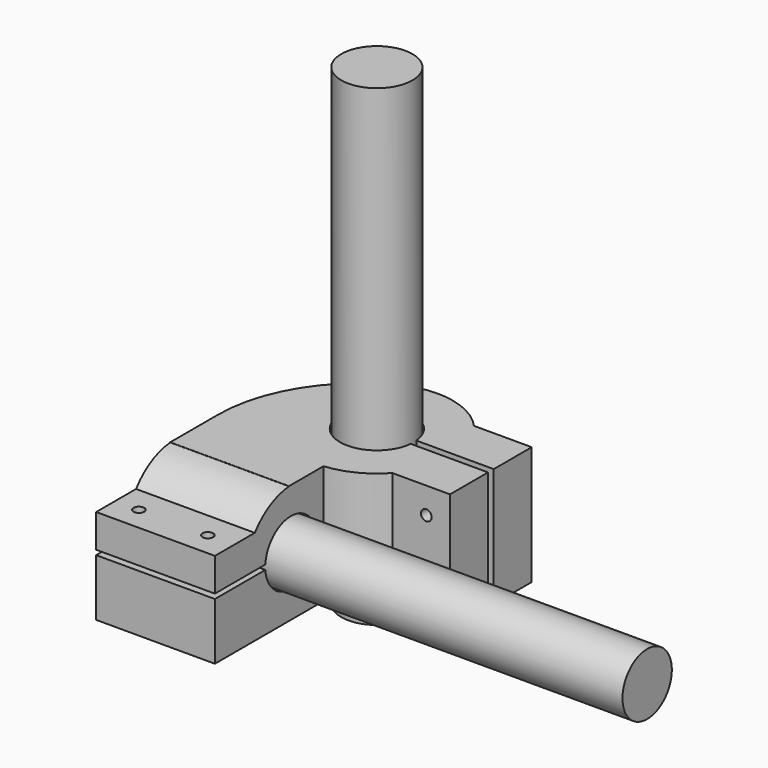
from build123d import *

# Parameters (mm, degrees)
CYLINDER_R                  = 15
CYLINDER_DEPTH              = 199
CYLINDER001_R               = 13
CYLINDER001_DEPTH           = 200
CYLINDER005_R               = 2.25
CYLINDER005_DEPTH           = 50
CYLINDER006_R               = 2.25
CYLINDER006_DEPTH           = 50
FUSION_ROLL_ANGLE           = 90
FUSION_PLACEMENT_ANGLE      = 90
CYLINDER007_R               = 2.25
CYLINDER007_DEPTH           = 50
CYLINDER008_R               = 2.25
CYLINDER008_DEPTH           = 50
CYLINDER004_R               = 15.5
CYLINDER004_DEPTH           = 199
CYLINDER003_R               = 13.5
CYLINDER003_DEPTH           = 200
BOX006_W                    = 50
BOX006_H                    = 27
BOX006_DEPTH                = 2
BOX_W                       = 20
BOX_H                       = 3
BOX_DEPTH                   = 50
CYLINDER002_W               = 60
CYLINDER002_H               = 50
CYLINDER002_ANGLE           = 60
CYLINDER002_PLACEMENT_ANGLE = 120
BOX005_W                    = 50
BOX005_H                    = 24
BOX005_DEPTH                = 14
BOX004_W                    = 50
BOX004_H                    = 25
BOX004_DEPTH                = 14
BOX003_W                    = 50
BOX003_H                    = 63
BOX003_DEPTH                = 10
BOX002_W                    = 25
BOX002_H                    = 20
BOX002_DEPTH                = 50
BOX001_W                    = 25
BOX001_H                    = 20
BOX001_DEPTH                = 50
TUBE001_R                   = 25
TUBE001_R_2                 = 13.5
TUBE001_DEPTH               = 50
TUBE_R                      = 32
TUBE_R_2                    = 15.5
TUBE_DEPTH                  = 50
BOX007_W                    = 50
BOX007_H                    = 25
BOX007_DEPTH                = 50


with BuildPart() as horizontal:
    # Cylinder → Cylinder (new body)
    with BuildSketch(Plane.XY):
        Circle(CYLINDER_R)
    extrude(amount=CYLINDER_DEPTH)


with BuildPart() as vertical:
    # Cylinder001 → Cylinder001 (new body)
    with BuildSketch(Plane(origin=(-47, -49, 40), x_dir=(0, 1, 0), z_dir=(1, 0, 0))):
        Circle(CYLINDER001_R)
    extrude(amount=CYLINDER001_DEPTH)


with BuildPart() as m4s:
    # Cylinder005 → Cylinder005 (new body)
    with BuildSketch(Plane(origin=(38, 22, 25), x_dir=(1, 0, 0), z_dir=(0, -1, 0))):
        Circle(CYLINDER005_R)
    extrude(amount=CYLINDER005_DEPTH)


with BuildPart() as m4s002:
    # Cylinder006 → Cylinder006 (new body)
    with BuildSketch(Plane(origin=(38, 22, 54), x_dir=(1, 0, 0), z_dir=(0, -1, 0))):
        Circle(CYLINDER006_R)
    extrude(amount=CYLINDER006_DEPTH)

    # Fusion: union m4s
    add(m4s.part)


with BuildPart() as obj1:
    # Fusion roll: moved
    add(m4s002.part.rotate(Axis((0, 0, 0), (1, 0, 0)), FUSION_ROLL_ANGLE))


with BuildPart() as obj2:
    # Fusion placement: moved
    add(obj1.part.moved(Location((-62, -117, 43))).rotate(Axis((-62, -117, 43), (0, 0, 1)), FUSION_PLACEMENT_ANGLE))


with BuildPart() as m4s004:
    # Cylinder007 → Cylinder007 (new body)
    with BuildSketch(Plane(origin=(38, 22, 25), x_dir=(1, 0, 0), z_dir=(0, -1, 0))):
        Circle(CYLINDER007_R)
    extrude(amount=CYLINDER007_DEPTH)


with BuildPart() as m4s003:
    # Cylinder008 → Cylinder008 (new body)
    with BuildSketch(Plane(origin=(38, 22, 54), x_dir=(1, 0, 0), z_dir=(0, -1, 0))):
        Circle(CYLINDER008_R)
    extrude(amount=CYLINDER008_DEPTH)

    # Fusion001: union m4s004
    add(m4s004.part)


with BuildPart() as horizontal001cuts:
    # Cylinder004 → Cylinder004 (new body)
    with BuildSketch(Plane.XY):
        Circle(CYLINDER004_R)
    extrude(amount=CYLINDER004_DEPTH)


with BuildPart() as vertical001cuts:
    # Cylinder003 → Cylinder003 (new body)
    with BuildSketch(Plane(origin=(-47, -49, 40), x_dir=(0, 1, 0), z_dir=(1, 0, 0))):
        Circle(CYLINDER003_R)
    extrude(amount=CYLINDER003_DEPTH)


with BuildPart() as vercuts:
    # Box006 → Box006 (new body)
    with BuildSketch(Plane(origin=(-47, -89, 39), x_dir=(1, 0, 0), z_dir=(0, 0, 1))):
        with Locations((25, 13.5)):
            Rectangle(BOX006_W, BOX006_H)
    extrude(amount=BOX006_DEPTH)


with BuildPart() as cuts:
    # Box → Box (new body)
    with BuildSketch(Plane(origin=(14, -1.5, 15), x_dir=(1, 0, 0), z_dir=(0, 0, 1))):
        with Locations((10, 1.5)):
            Rectangle(BOX_W, BOX_H)
    extrude(amount=BOX_DEPTH)

    # Fusion002: union m4s002, m4s003, Horizontal001Cuts, Vertical001Cuts, verCuts
    add(obj2.part)
    add(m4s003.part)
    add(horizontal001cuts.part)
    add(vertical001cuts.part)
    add(vercuts.part)


with BuildPart() as obj3:
    # Cylinder002 → Cylinder002 (revolve)
    with BuildSketch(Plane.XZ):
        with Locations((30, 25)):
            Rectangle(CYLINDER002_W, CYLINDER002_H)
    revolve(axis=Axis((0, 0, 0), (0, 0, 1)), revolution_arc=CYLINDER002_ANGLE)


with BuildPart() as obj3_1:
    # Cylinder002 placement: moved
    add(obj3.part.moved(Location((13, -25, 15))).rotate(Axis((13, -25, 15), (0, 0, 1)), CYLINDER002_PLACEMENT_ANGLE))


with BuildPart() as veraddons002:
    # Box005 → Box005 (new body)
    with BuildSketch(Plane(origin=(-47, -89, 41), x_dir=(1, 0, 0), z_dir=(0, 0, 1))):
        with Locations((25, 12)):
            Rectangle(BOX005_W, BOX005_H)
    extrude(amount=BOX005_DEPTH)


with BuildPart() as veraddons001:
    # Box004 → Box004 (new body)
    with BuildSketch(Plane(origin=(-47, -89, 25), x_dir=(1, 0, 0), z_dir=(0, 0, 1))):
        with Locations((25, 12.5)):
            Rectangle(BOX004_W, BOX004_H)
    extrude(amount=BOX004_DEPTH)


with BuildPart() as veraddons:
    # Box003 → Box003 (new body)
    with BuildSketch(Plane(origin=(-47, -89, 15), x_dir=(1, 0, 0), z_dir=(0, 0, 1))):
        with Locations((25, 31.5)):
            Rectangle(BOX003_W, BOX003_H)
    extrude(amount=BOX003_DEPTH)


with BuildPart() as obj4:
    # Box002 → Box002 (new body)
    with BuildSketch(Plane(origin=(23, 1.5, 15), x_dir=(1, 0, 0), z_dir=(0, 0, 1))):
        with Locations((12.5, 10)):
            Rectangle(BOX002_W, BOX002_H)
    extrude(amount=BOX002_DEPTH)


with BuildPart() as obj5:
    # Box001 → Box001 (new body)
    with BuildSketch(Plane(origin=(23, -21.5, 15), x_dir=(1, 0, 0), z_dir=(0, 0, 1))):
        with Locations((12.5, 10)):
            Rectangle(BOX001_W, BOX001_H)
    extrude(amount=BOX001_DEPTH)


with BuildPart() as tubeaddons001:
    # Tube001 → Tube001 (new body)
    with BuildSketch(Plane(origin=(-47, -48, 40), x_dir=(0, 0, -1), z_dir=(1, 0, 0))):
        Circle(TUBE001_R)
        Circle(TUBE001_R_2, mode=Mode.SUBTRACT)
    extrude(amount=TUBE001_DEPTH)


with BuildPart() as tubeaddons:
    # Tube → Tube (new body)
    with BuildSketch(Plane.XY.offset(15)):
        Circle(TUBE_R)
        Circle(TUBE_R_2, mode=Mode.SUBTRACT)
    extrude(amount=TUBE_DEPTH)


with BuildPart() as left:
    # Box007 → Box007 (new body)
    with BuildSketch(Plane(origin=(-47, -50, 15), x_dir=(1, 0, 0), z_dir=(0, 0, 1))):
        with Locations((25, 12.5)):
            Rectangle(BOX007_W, BOX007_H)
    extrude(amount=BOX007_DEPTH)

    # Fusion003: union obj3, VerAddons002, VerAddons001, VerAddons, obj4, obj5, TubeAddons001, TubeAddons
    add(obj3_1.part)
    add(veraddons002.part)
    add(veraddons001.part)
    add(veraddons.part)
    add(obj4.part)
    add(obj5.part)
    add(tubeaddons001.part)
    add(tubeaddons.part)

    # Cut: cut cuts
    add(cuts.part, mode=Mode.SUBTRACT)


solid = Compound([horizontal.part, vertical.part, left.part])
